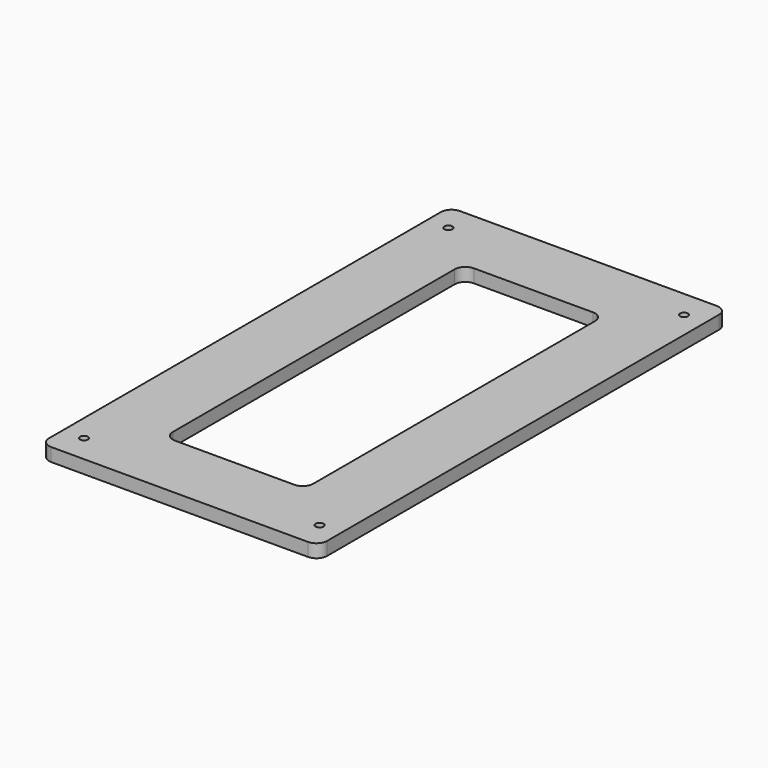
from build123d import *

# Parameters (mm, degrees)
SKETCH_W        = 105
SKETCH_H        = 193
PAD_DEPTH       = 5
SKETCH001_R     = 1.5
POCKET_DEPTH    = 5.001
SKETCH003_W     = 53
SKETCH003_H     = 141
POCKET002_DEPTH = 5.001
FILLET_R        = 4


with BuildPart() as part:
    # Sketch → Pad (new body)
    with BuildSketch(Plane.XY):
        Rectangle(SKETCH_W, SKETCH_H)
    extrude(amount=PAD_DEPTH)

    # Sketch001 (on Face6 of Pad) → Pocket (cut, through all)
    with BuildSketch(Plane.XY.offset(5)):
        with Locations((-44.5, 86)):
            Circle(SKETCH001_R)
        with Locations((44.5, 86)):
            Circle(SKETCH001_R)
        with Locations((-44.5, -86)):
            Circle(SKETCH001_R)
        with Locations((44.5, -86)):
            Circle(SKETCH001_R)
    extrude(amount=-POCKET_DEPTH, mode=Mode.SUBTRACT)

    # Sketch003 → Pocket002 (cut, through all)
    with BuildSketch(Plane.XY):
        Rectangle(SKETCH003_W, SKETCH003_H)
    extrude(amount=POCKET002_DEPTH, mode=Mode.SUBTRACT)

    # Fillet
    fillet_edges = [part.edges().sort_by_distance(p)[0] for p in [
        (-52.5, 96.5, 2.5),
        (-52.5, -96.5, 2.5),
        (52.5, -96.5, 2.5),
        (52.5, 96.5, 2.5),
        (26.5, 70.5, 2.5),
        (26.5, -70.5, 2.5),
        (-26.5, -70.5, 2.5),
        (-26.5, 70.5, 2.5),
    ]]
    fillet(fillet_edges, radius=FILLET_R)


solid = part.part
